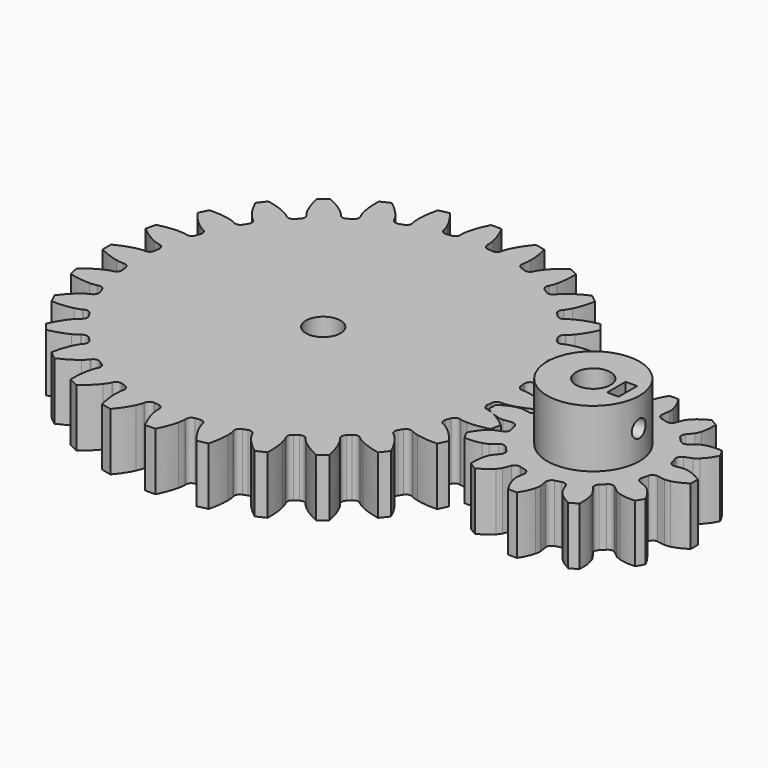
from build123d import *

# Parameters (mm, degrees)
CYLINDER001_R     = 8
CYLINDER001_DEPTH = 10
CYLINDER003_R     = 3
CYLINDER003_DEPTH = 10
EXTRUDE_DEPTH     = 10
CYLINDER004_R     = 1.5
CYLINDER004_DEPTH = 10
BOX_W             = 2
BOX_H             = 4
BOX_DEPTH         = 4
CYLINDER002_R     = 3
CYLINDER002_DEPTH = 20
CYLINDER_R        = 8
CYLINDER_DEPTH    = 20
EXTRUDE001_DEPTH  = 10


with BuildPart() as cilindro001:
    # Cylinder001 → Cylinder001 (new body)
    with BuildSketch(Plane(origin=(50, -4, 0), x_dir=(1, 0, 0), z_dir=(0, 0, 1))):
        Circle(CYLINDER001_R)
    extrude(amount=CYLINDER001_DEPTH)


with BuildPart() as cilindro003:
    # Cylinder003 → Cylinder003 (new body)
    with BuildSketch(Plane.XY):
        Circle(CYLINDER003_R)
    extrude(amount=CYLINDER003_DEPTH)


with BuildPart() as cut002:
    # InvoluteGear → Extrude (new body)
    with BuildSketch(Plane.XY):
        with BuildLine():
            Line((32.716459, -2.32692), (32.856946, -2.335013))
            add(Edge.make_bspline(
                [(32.856946, -2.335013), (32.990949, -2.337125), (33.394798, -2.328721), (34.06713, -2.188651)],
                knots=[0, 0, 0, 0, 1, 1, 1, 1], degree=3))
            add(Edge.make_bspline(
                [(34.06713, -2.188651), (34.873016, -2.018801), (36.038338, -1.661329), (37.491435, -0.912795)],
                knots=[0, 0, 0, 0, 1, 1, 1, 1], degree=3))
            ThreePointArc((37.491435, -0.912795), (37.502546, 0), (37.491435, 0.912795))
            add(Edge.make_bspline(
                [(37.491435, 0.912795), (36.038338, 1.661329), (34.873016, 2.018801), (34.06713, 2.188651)],
                knots=[0, 0, 0, 0, 1, 1, 1, 1], degree=3))
            add(Edge.make_bspline(
                [(34.06713, 2.188651), (33.394798, 2.328721), (32.990949, 2.337125), (32.856946, 2.335013)],
                knots=[0, 0, 0, 0, 1, 1, 1, 1], degree=3))
            Line((32.856946, 2.335013), (32.716459, 2.32692))
            ThreePointArc((32.716459, 2.32692), (32.04606, 2.544962), (31.71713, 3.168486))
            ThreePointArc((31.71713, 3.168486), (31.674577, 3.568868), (31.62697, 3.96868))
            ThreePointArc((31.62697, 3.96868), (31.808906, 4.649765), (32.413977, 5.011518))
            Line((32.413977, 5.011518), (32.552743, 5.034889))
            add(Edge.make_bspline(
                [(32.552743, 5.034889), (32.683857, 5.062649), (33.07571, 5.160707), (33.700017, 5.446872)],
                knots=[0, 0, 0, 0, 1, 1, 1, 1], degree=3))
            add(Edge.make_bspline(
                [(33.700017, 5.446872), (34.447903, 5.791791), (35.504462, 6.399608), (36.754562, 7.45272)],
                knots=[0, 0, 0, 0, 1, 1, 1, 1], degree=3))
            ThreePointArc((36.754562, 7.45272), (36.562279, 8.345102), (36.348331, 9.232538))
            add(Edge.make_bspline(
                [(36.348331, 9.232538), (34.765101, 9.638961), (33.549452, 9.728162), (32.725976, 9.714427)],
                knots=[0, 0, 0, 0, 1, 1, 1, 1], degree=3))
            add(Edge.make_bspline(
                [(32.725976, 9.714427), (32.039332, 9.701377), (31.643738, 9.619705), (31.513565, 9.587827)],
                knots=[0, 0, 0, 0, 1, 1, 1, 1], degree=3))
            Line((31.513565, 9.587827), (31.378401, 9.548676))
            ThreePointArc((31.378401, 9.548676), (30.676291, 9.612074), (30.216861, 10.146771))
            ThreePointArc((30.216861, 10.146771), (30.086281, 10.527645), (29.950901, 10.90684))
            ThreePointArc((29.950901, 10.90684), (29.97672, 11.611333), (30.486124, 12.098658))
            Line((30.486124, 12.098658), (30.61621, 12.152321))
            add(Edge.make_bspline(
                [(30.61621, 12.152321), (30.737859, 12.20856), (31.098067, 12.391355), (31.643044, 12.809267)],
                knots=[0, 0, 0, 0, 1, 1, 1, 1], degree=3))
            add(Edge.make_bspline(
                [(31.643044, 12.809267), (32.295427, 13.311958), (33.190244, 14.139643), (34.174663, 15.444524)],
                knots=[0, 0, 0, 0, 1, 1, 1, 1], degree=3))
            ThreePointArc((34.174663, 15.444524), (33.788626, 16.271745), (33.382569, 17.089324))
            add(Edge.make_bspline(
                [(33.382569, 17.089324), (31.748597, 17.133255), (30.543577, 16.949712), (29.743804, 16.753081)],
                knots=[0, 0, 0, 0, 1, 1, 1, 1], degree=3))
            add(Edge.make_bspline(
                [(29.743804, 16.753081), (29.077279, 16.587565), (28.709778, 16.419913), (28.589961, 16.359868)],
                knots=[0, 0, 0, 0, 1, 1, 1, 1], degree=3))
            Line((28.589961, 16.359868), (28.466899, 16.291622))
            ThreePointArc((28.466899, 16.291622), (27.768285, 16.197196), (27.201392, 16.616254))
            ThreePointArc((27.201392, 16.616254), (26.989334, 16.958522), (26.772969, 17.298085))
            ThreePointArc((26.772969, 17.298085), (26.641377, 17.99066), (27.029568, 18.57912))
            Line((27.029568, 18.57912), (27.144452, 18.660384))
            add(Edge.make_bspline(
                [(27.144452, 18.660384), (27.250536, 18.742283), (27.561038, 19.000649), (27.999357, 19.529352)],
                knots=[0, 0, 0, 0, 1, 1, 1, 1], degree=3))
            add(Edge.make_bspline(
                [(27.999357, 19.529352), (28.523524, 20.164608), (29.211729, 21.170657), (29.881102, 22.661876)],
                knots=[0, 0, 0, 0, 1, 1, 1, 1], degree=3))
            ThreePointArc((29.881102, 22.661876), (29.320671, 23.382455), (28.742866, 24.089179))
            add(Edge.make_bspline(
                [(28.742866, 24.089179), (27.140085, 23.768415), (26.00612, 23.321332), (25.270153, 22.951665)],
                knots=[0, 0, 0, 0, 1, 1, 1, 1], degree=3))
            add(Edge.make_bspline(
                [(25.270153, 22.951665), (24.657171, 22.641983), (24.336189, 22.396758), (24.232738, 22.311557)],
                knots=[0, 0, 0, 0, 1, 1, 1, 1], degree=3))
            Line((24.232738, 22.311557), (24.127947, 22.217638))
            ThreePointArc((24.127947, 22.217638), (23.467861, 21.970123), (22.821932, 22.252529))
            ThreePointArc((22.821932, 22.252529), (22.539029, 22.539029), (22.252529, 22.821932))
            ThreePointArc((22.252529, 22.821932), (21.970123, 23.467861), (22.217638, 24.127947))
            Line((22.217638, 24.127947), (22.311557, 24.232738))
            add(Edge.make_bspline(
                [(22.311557, 24.232738), (22.396758, 24.336189), (22.641983, 24.657171), (22.951665, 25.270153)],
                knots=[0, 0, 0, 0, 1, 1, 1, 1], degree=3))
            add(Edge.make_bspline(
                [(22.951665, 25.270153), (23.321332, 26.00612), (23.768415, 27.140085), (24.089179, 28.742866)],
                knots=[0, 0, 0, 0, 1, 1, 1, 1], degree=3))
            ThreePointArc((24.089179, 28.742866), (23.382455, 29.320671), (22.661876, 29.881102))
            add(Edge.make_bspline(
                [(22.661876, 29.881102), (21.170657, 29.211729), (20.164608, 28.523524), (19.529352, 27.999357)],
                knots=[0, 0, 0, 0, 1, 1, 1, 1], degree=3))
            add(Edge.make_bspline(
                [(19.529352, 27.999357), (19.000649, 27.561038), (18.742283, 27.250536), (18.660384, 27.144452)],
                knots=[0, 0, 0, 0, 1, 1, 1, 1], degree=3))
            Line((18.660384, 27.144452), (18.57912, 27.029568))
            ThreePointArc((18.57912, 27.029568), (17.99066, 26.641377), (17.298085, 26.772969))
            ThreePointArc((17.298085, 26.772969), (16.958522, 26.989334), (16.616254, 27.201392))
            ThreePointArc((16.616254, 27.201392), (16.197196, 27.768285), (16.291622, 28.466899))
            Line((16.291622, 28.466899), (16.359868, 28.589961))
            add(Edge.make_bspline(
                [(16.359868, 28.589961), (16.419913, 28.709778), (16.587565, 29.077279), (16.753081, 29.743804)],
                knots=[0, 0, 0, 0, 1, 1, 1, 1], degree=3))
            add(Edge.make_bspline(
                [(16.753081, 29.743804), (16.949712, 30.543577), (17.133255, 31.748597), (17.089324, 33.382569)],
                knots=[0, 0, 0, 0, 1, 1, 1, 1], degree=3))
            ThreePointArc((17.089324, 33.382569), (16.271745, 33.788626), (15.444524, 34.174663))
            add(Edge.make_bspline(
                [(15.444524, 34.174663), (14.139643, 33.190244), (13.311958, 32.295427), (12.809267, 31.643044)],
                knots=[0, 0, 0, 0, 1, 1, 1, 1], degree=3))
            add(Edge.make_bspline(
                [(12.809267, 31.643044), (12.391355, 31.098067), (12.20856, 30.737859), (12.152321, 30.61621)],
                knots=[0, 0, 0, 0, 1, 1, 1, 1], degree=3))
            Line((12.152321, 30.61621), (12.098658, 30.486124))
            ThreePointArc((12.098658, 30.486124), (11.611333, 29.97672), (10.90684, 29.950901))
            ThreePointArc((10.90684, 29.950901), (10.527645, 30.086281), (10.146771, 30.216861))
            ThreePointArc((10.146771, 30.216861), (9.612074, 30.676291), (9.548676, 31.378401))
            Line((9.548676, 31.378401), (9.587827, 31.513565))
            add(Edge.make_bspline(
                [(9.587827, 31.513565), (9.619705, 31.643738), (9.701377, 32.039332), (9.714427, 32.725976)],
                knots=[0, 0, 0, 0, 1, 1, 1, 1], degree=3))
            add(Edge.make_bspline(
                [(9.714427, 32.725976), (9.728162, 33.549452), (9.638961, 34.765101), (9.232538, 36.348331)],
                knots=[0, 0, 0, 0, 1, 1, 1, 1], degree=3))
            ThreePointArc((9.232538, 36.348331), (8.345102, 36.562279), (7.45272, 36.754562))
            add(Edge.make_bspline(
                [(7.45272, 36.754562), (6.399608, 35.504462), (5.791791, 34.447903), (5.446872, 33.700017)],
                knots=[0, 0, 0, 0, 1, 1, 1, 1], degree=3))
            add(Edge.make_bspline(
                [(5.446872, 33.700017), (5.160707, 33.07571), (5.062649, 32.683857), (5.034889, 32.552743)],
                knots=[0, 0, 0, 0, 1, 1, 1, 1], degree=3))
            Line((5.034889, 32.552743), (5.011518, 32.413977))
            ThreePointArc((5.011518, 32.413977), (4.649765, 31.808906), (3.96868, 31.62697))
            ThreePointArc((3.96868, 31.62697), (3.568868, 31.674577), (3.168486, 31.71713))
            ThreePointArc((3.168486, 31.71713), (2.544962, 32.04606), (2.32692, 32.716459))
            Line((2.32692, 32.716459), (2.335013, 32.856946))
            add(Edge.make_bspline(
                [(2.335013, 32.856946), (2.337125, 32.990949), (2.328721, 33.394798), (2.188651, 34.06713)],
                knots=[0, 0, 0, 0, 1, 1, 1, 1], degree=3))
            add(Edge.make_bspline(
                [(2.188651, 34.06713), (2.018801, 34.873016), (1.661329, 36.038338), (0.912795, 37.491435)],
                knots=[0, 0, 0, 0, 1, 1, 1, 1], degree=3))
            ThreePointArc((0.912795, 37.491435), (0, 37.502546), (-0.912795, 37.491435))
            add(Edge.make_bspline(
                [(-0.912795, 37.491435), (-1.661329, 36.038338), (-2.018801, 34.873016), (-2.188651, 34.06713)],
                knots=[0, 0, 0, 0, 1, 1, 1, 1], degree=3))
            add(Edge.make_bspline(
                [(-2.188651, 34.06713), (-2.328721, 33.394798), (-2.337125, 32.990949), (-2.335013, 32.856946)],
                knots=[0, 0, 0, 0, 1, 1, 1, 1], degree=3))
            Line((-2.335013, 32.856946), (-2.32692, 32.716459))
            ThreePointArc((-2.32692, 32.716459), (-2.544962, 32.04606), (-3.168486, 31.71713))
            ThreePointArc((-3.168486, 31.71713), (-3.568868, 31.674577), (-3.96868, 31.62697))
            ThreePointArc((-3.96868, 31.62697), (-4.649765, 31.808906), (-5.011518, 32.413977))
            Line((-5.011518, 32.413977), (-5.034889, 32.552743))
            add(Edge.make_bspline(
                [(-5.034889, 32.552743), (-5.062649, 32.683857), (-5.160707, 33.07571), (-5.446872, 33.700017)],
                knots=[0, 0, 0, 0, 1, 1, 1, 1], degree=3))
            add(Edge.make_bspline(
                [(-5.446872, 33.700017), (-5.791791, 34.447903), (-6.399608, 35.504462), (-7.45272, 36.754562)],
                knots=[0, 0, 0, 0, 1, 1, 1, 1], degree=3))
            ThreePointArc((-7.45272, 36.754562), (-8.345102, 36.562279), (-9.232538, 36.348331))
            add(Edge.make_bspline(
                [(-9.232538, 36.348331), (-9.638961, 34.765101), (-9.728162, 33.549452), (-9.714427, 32.725976)],
                knots=[0, 0, 0, 0, 1, 1, 1, 1], degree=3))
            add(Edge.make_bspline(
                [(-9.714427, 32.725976), (-9.701377, 32.039332), (-9.619705, 31.643738), (-9.587827, 31.513565)],
                knots=[0, 0, 0, 0, 1, 1, 1, 1], degree=3))
            Line((-9.587827, 31.513565), (-9.548676, 31.378401))
            ThreePointArc((-9.548676, 31.378401), (-9.612074, 30.676291), (-10.146771, 30.216861))
            ThreePointArc((-10.146771, 30.216861), (-10.527645, 30.086281), (-10.90684, 29.950901))
            ThreePointArc((-10.90684, 29.950901), (-11.611333, 29.97672), (-12.098658, 30.486124))
            Line((-12.098658, 30.486124), (-12.152321, 30.61621))
            add(Edge.make_bspline(
                [(-12.152321, 30.61621), (-12.20856, 30.737859), (-12.391355, 31.098067), (-12.809267, 31.643044)],
                knots=[0, 0, 0, 0, 1, 1, 1, 1], degree=3))
            add(Edge.make_bspline(
                [(-12.809267, 31.643044), (-13.311958, 32.295427), (-14.139643, 33.190244), (-15.444524, 34.174663)],
                knots=[0, 0, 0, 0, 1, 1, 1, 1], degree=3))
            ThreePointArc((-15.444524, 34.174663), (-16.271745, 33.788626), (-17.089324, 33.382569))
            add(Edge.make_bspline(
                [(-17.089324, 33.382569), (-17.133255, 31.748597), (-16.949712, 30.543577), (-16.753081, 29.743804)],
                knots=[0, 0, 0, 0, 1, 1, 1, 1], degree=3))
            add(Edge.make_bspline(
                [(-16.753081, 29.743804), (-16.587565, 29.077279), (-16.419913, 28.709778), (-16.359868, 28.589961)],
                knots=[0, 0, 0, 0, 1, 1, 1, 1], degree=3))
            Line((-16.359868, 28.589961), (-16.291622, 28.466899))
            ThreePointArc((-16.291622, 28.466899), (-16.197196, 27.768285), (-16.616254, 27.201392))
            ThreePointArc((-16.616254, 27.201392), (-16.958522, 26.989334), (-17.298085, 26.772969))
            ThreePointArc((-17.298085, 26.772969), (-17.99066, 26.641377), (-18.57912, 27.029568))
            Line((-18.57912, 27.029568), (-18.660384, 27.144452))
            add(Edge.make_bspline(
                [(-18.660384, 27.144452), (-18.742283, 27.250536), (-19.000649, 27.561038), (-19.529352, 27.999357)],
                knots=[0, 0, 0, 0, 1, 1, 1, 1], degree=3))
            add(Edge.make_bspline(
                [(-19.529352, 27.999357), (-20.164608, 28.523524), (-21.170657, 29.211729), (-22.661876, 29.881102)],
                knots=[0, 0, 0, 0, 1, 1, 1, 1], degree=3))
            ThreePointArc((-22.661876, 29.881102), (-23.382455, 29.320671), (-24.089179, 28.742866))
            add(Edge.make_bspline(
                [(-24.089179, 28.742866), (-23.768415, 27.140085), (-23.321332, 26.00612), (-22.951665, 25.270153)],
                knots=[0, 0, 0, 0, 1, 1, 1, 1], degree=3))
            add(Edge.make_bspline(
                [(-22.951665, 25.270153), (-22.641983, 24.657171), (-22.396758, 24.336189), (-22.311557, 24.232738)],
                knots=[0, 0, 0, 0, 1, 1, 1, 1], degree=3))
            Line((-22.311557, 24.232738), (-22.217638, 24.127947))
            ThreePointArc((-22.217638, 24.127947), (-21.970123, 23.467861), (-22.252529, 22.821932))
            ThreePointArc((-22.252529, 22.821932), (-22.539029, 22.539029), (-22.821932, 22.252529))
            ThreePointArc((-22.821932, 22.252529), (-23.467861, 21.970123), (-24.127947, 22.217638))
            Line((-24.127947, 22.217638), (-24.232738, 22.311557))
            add(Edge.make_bspline(
                [(-24.232738, 22.311557), (-24.336189, 22.396758), (-24.657171, 22.641983), (-25.270153, 22.951665)],
                knots=[0, 0, 0, 0, 1, 1, 1, 1], degree=3))
            add(Edge.make_bspline(
                [(-25.270153, 22.951665), (-26.00612, 23.321332), (-27.140085, 23.768415), (-28.742866, 24.089179)],
                knots=[0, 0, 0, 0, 1, 1, 1, 1], degree=3))
            ThreePointArc((-28.742866, 24.089179), (-29.320671, 23.382455), (-29.881102, 22.661876))
            add(Edge.make_bspline(
                [(-29.881102, 22.661876), (-29.211729, 21.170657), (-28.523524, 20.164608), (-27.999357, 19.529352)],
                knots=[0, 0, 0, 0, 1, 1, 1, 1], degree=3))
            add(Edge.make_bspline(
                [(-27.999357, 19.529352), (-27.561038, 19.000649), (-27.250536, 18.742283), (-27.144452, 18.660384)],
                knots=[0, 0, 0, 0, 1, 1, 1, 1], degree=3))
            Line((-27.144452, 18.660384), (-27.029568, 18.57912))
            ThreePointArc((-27.029568, 18.57912), (-26.641377, 17.99066), (-26.772969, 17.298085))
            ThreePointArc((-26.772969, 17.298085), (-26.989334, 16.958522), (-27.201392, 16.616254))
            ThreePointArc((-27.201392, 16.616254), (-27.768285, 16.197196), (-28.466899, 16.291622))
            Line((-28.466899, 16.291622), (-28.589961, 16.359868))
            add(Edge.make_bspline(
                [(-28.589961, 16.359868), (-28.709778, 16.419913), (-29.077279, 16.587565), (-29.743804, 16.753081)],
                knots=[0, 0, 0, 0, 1, 1, 1, 1], degree=3))
            add(Edge.make_bspline(
                [(-29.743804, 16.753081), (-30.543577, 16.949712), (-31.748597, 17.133255), (-33.382569, 17.089324)],
                knots=[0, 0, 0, 0, 1, 1, 1, 1], degree=3))
            ThreePointArc((-33.382569, 17.089324), (-33.788626, 16.271745), (-34.174663, 15.444524))
            add(Edge.make_bspline(
                [(-34.174663, 15.444524), (-33.190244, 14.139643), (-32.295427, 13.311958), (-31.643044, 12.809267)],
                knots=[0, 0, 0, 0, 1, 1, 1, 1], degree=3))
            add(Edge.make_bspline(
                [(-31.643044, 12.809267), (-31.098067, 12.391355), (-30.737859, 12.20856), (-30.61621, 12.152321)],
                knots=[0, 0, 0, 0, 1, 1, 1, 1], degree=3))
            Line((-30.61621, 12.152321), (-30.486124, 12.098658))
            ThreePointArc((-30.486124, 12.098658), (-29.97672, 11.611333), (-29.950901, 10.90684))
            ThreePointArc((-29.950901, 10.90684), (-30.086281, 10.527645), (-30.216861, 10.146771))
            ThreePointArc((-30.216861, 10.146771), (-30.676291, 9.612074), (-31.378401, 9.548676))
            Line((-31.378401, 9.548676), (-31.513565, 9.587827))
            add(Edge.make_bspline(
                [(-31.513565, 9.587827), (-31.643738, 9.619705), (-32.039332, 9.701377), (-32.725976, 9.714427)],
                knots=[0, 0, 0, 0, 1, 1, 1, 1], degree=3))
            add(Edge.make_bspline(
                [(-32.725976, 9.714427), (-33.549452, 9.728162), (-34.765101, 9.638961), (-36.348331, 9.232538)],
                knots=[0, 0, 0, 0, 1, 1, 1, 1], degree=3))
            ThreePointArc((-36.348331, 9.232538), (-36.562279, 8.345102), (-36.754562, 7.45272))
            add(Edge.make_bspline(
                [(-36.754562, 7.45272), (-35.504462, 6.399608), (-34.447903, 5.791791), (-33.700017, 5.446872)],
                knots=[0, 0, 0, 0, 1, 1, 1, 1], degree=3))
            add(Edge.make_bspline(
                [(-33.700017, 5.446872), (-33.07571, 5.160707), (-32.683857, 5.062649), (-32.552743, 5.034889)],
                knots=[0, 0, 0, 0, 1, 1, 1, 1], degree=3))
            Line((-32.552743, 5.034889), (-32.413977, 5.011518))
            ThreePointArc((-32.413977, 5.011518), (-31.808906, 4.649765), (-31.62697, 3.96868))
            ThreePointArc((-31.62697, 3.96868), (-31.674577, 3.568868), (-31.71713, 3.168486))
            ThreePointArc((-31.71713, 3.168486), (-32.04606, 2.544962), (-32.716459, 2.32692))
            Line((-32.716459, 2.32692), (-32.856946, 2.335013))
            add(Edge.make_bspline(
                [(-32.856946, 2.335013), (-32.990949, 2.337125), (-33.394798, 2.328721), (-34.06713, 2.188651)],
                knots=[0, 0, 0, 0, 1, 1, 1, 1], degree=3))
            add(Edge.make_bspline(
                [(-34.06713, 2.188651), (-34.873016, 2.018801), (-36.038338, 1.661329), (-37.491435, 0.912795)],
                knots=[0, 0, 0, 0, 1, 1, 1, 1], degree=3))
            ThreePointArc((-37.491435, 0.912795), (-37.502546, 0), (-37.491435, -0.912795))
            add(Edge.make_bspline(
                [(-37.491435, -0.912795), (-36.038338, -1.661329), (-34.873016, -2.018801), (-34.06713, -2.188651)],
                knots=[0, 0, 0, 0, 1, 1, 1, 1], degree=3))
            add(Edge.make_bspline(
                [(-34.06713, -2.188651), (-33.394798, -2.328721), (-32.990949, -2.337125), (-32.856946, -2.335013)],
                knots=[0, 0, 0, 0, 1, 1, 1, 1], degree=3))
            Line((-32.856946, -2.335013), (-32.716459, -2.32692))
            ThreePointArc((-32.716459, -2.32692), (-32.04606, -2.544962), (-31.71713, -3.168486))
            ThreePointArc((-31.71713, -3.168486), (-31.674577, -3.568868), (-31.62697, -3.96868))
            ThreePointArc((-31.62697, -3.96868), (-31.808906, -4.649765), (-32.413977, -5.011518))
            Line((-32.413977, -5.011518), (-32.552743, -5.034889))
            add(Edge.make_bspline(
                [(-32.552743, -5.034889), (-32.683857, -5.062649), (-33.07571, -5.160707), (-33.700017, -5.446872)],
                knots=[0, 0, 0, 0, 1, 1, 1, 1], degree=3))
            add(Edge.make_bspline(
                [(-33.700017, -5.446872), (-34.447903, -5.791791), (-35.504462, -6.399608), (-36.754562, -7.45272)],
                knots=[0, 0, 0, 0, 1, 1, 1, 1], degree=3))
            ThreePointArc((-36.754562, -7.45272), (-36.562279, -8.345102), (-36.348331, -9.232538))
            add(Edge.make_bspline(
                [(-36.348331, -9.232538), (-34.765101, -9.638961), (-33.549452, -9.728162), (-32.725976, -9.714427)],
                knots=[0, 0, 0, 0, 1, 1, 1, 1], degree=3))
            add(Edge.make_bspline(
                [(-32.725976, -9.714427), (-32.039332, -9.701377), (-31.643738, -9.619705), (-31.513565, -9.587827)],
                knots=[0, 0, 0, 0, 1, 1, 1, 1], degree=3))
            Line((-31.513565, -9.587827), (-31.378401, -9.548676))
            ThreePointArc((-31.378401, -9.548676), (-30.676291, -9.612074), (-30.216861, -10.146771))
            ThreePointArc((-30.216861, -10.146771), (-30.086281, -10.527645), (-29.950901, -10.90684))
            ThreePointArc((-29.950901, -10.90684), (-29.97672, -11.611333), (-30.486124, -12.098658))
            Line((-30.486124, -12.098658), (-30.61621, -12.152321))
            add(Edge.make_bspline(
                [(-30.61621, -12.152321), (-30.737859, -12.20856), (-31.098067, -12.391355), (-31.643044, -12.809267)],
                knots=[0, 0, 0, 0, 1, 1, 1, 1], degree=3))
            add(Edge.make_bspline(
                [(-31.643044, -12.809267), (-32.295427, -13.311958), (-33.190244, -14.139643), (-34.174663, -15.444524)],
                knots=[0, 0, 0, 0, 1, 1, 1, 1], degree=3))
            ThreePointArc((-34.174663, -15.444524), (-33.788626, -16.271745), (-33.382569, -17.089324))
            add(Edge.make_bspline(
                [(-33.382569, -17.089324), (-31.748597, -17.133255), (-30.543577, -16.949712), (-29.743804, -16.753081)],
                knots=[0, 0, 0, 0, 1, 1, 1, 1], degree=3))
            add(Edge.make_bspline(
                [(-29.743804, -16.753081), (-29.077279, -16.587565), (-28.709778, -16.419913), (-28.589961, -16.359868)],
                knots=[0, 0, 0, 0, 1, 1, 1, 1], degree=3))
            Line((-28.589961, -16.359868), (-28.466899, -16.291622))
            ThreePointArc((-28.466899, -16.291622), (-27.768285, -16.197196), (-27.201392, -16.616254))
            ThreePointArc((-27.201392, -16.616254), (-26.989334, -16.958522), (-26.772969, -17.298085))
            ThreePointArc((-26.772969, -17.298085), (-26.641377, -17.99066), (-27.029568, -18.57912))
            Line((-27.029568, -18.57912), (-27.144452, -18.660384))
            add(Edge.make_bspline(
                [(-27.144452, -18.660384), (-27.250536, -18.742283), (-27.561038, -19.000649), (-27.999357, -19.529352)],
                knots=[0, 0, 0, 0, 1, 1, 1, 1], degree=3))
            add(Edge.make_bspline(
                [(-27.999357, -19.529352), (-28.523524, -20.164608), (-29.211729, -21.170657), (-29.881102, -22.661876)],
                knots=[0, 0, 0, 0, 1, 1, 1, 1], degree=3))
            ThreePointArc((-29.881102, -22.661876), (-29.320671, -23.382455), (-28.742866, -24.089179))
            add(Edge.make_bspline(
                [(-28.742866, -24.089179), (-27.140085, -23.768415), (-26.00612, -23.321332), (-25.270153, -22.951665)],
                knots=[0, 0, 0, 0, 1, 1, 1, 1], degree=3))
            add(Edge.make_bspline(
                [(-25.270153, -22.951665), (-24.657171, -22.641983), (-24.336189, -22.396758), (-24.232738, -22.311557)],
                knots=[0, 0, 0, 0, 1, 1, 1, 1], degree=3))
            Line((-24.232738, -22.311557), (-24.127947, -22.217638))
            ThreePointArc((-24.127947, -22.217638), (-23.467861, -21.970123), (-22.821932, -22.252529))
            ThreePointArc((-22.821932, -22.252529), (-22.539029, -22.539029), (-22.252529, -22.821932))
            ThreePointArc((-22.252529, -22.821932), (-21.970123, -23.467861), (-22.217638, -24.127947))
            Line((-22.217638, -24.127947), (-22.311557, -24.232738))
            add(Edge.make_bspline(
                [(-22.311557, -24.232738), (-22.396758, -24.336189), (-22.641983, -24.657171), (-22.951665, -25.270153)],
                knots=[0, 0, 0, 0, 1, 1, 1, 1], degree=3))
            add(Edge.make_bspline(
                [(-22.951665, -25.270153), (-23.321332, -26.00612), (-23.768415, -27.140085), (-24.089179, -28.742866)],
                knots=[0, 0, 0, 0, 1, 1, 1, 1], degree=3))
            ThreePointArc((-24.089179, -28.742866), (-23.382455, -29.320671), (-22.661876, -29.881102))
            add(Edge.make_bspline(
                [(-22.661876, -29.881102), (-21.170657, -29.211729), (-20.164608, -28.523524), (-19.529352, -27.999357)],
                knots=[0, 0, 0, 0, 1, 1, 1, 1], degree=3))
            add(Edge.make_bspline(
                [(-19.529352, -27.999357), (-19.000649, -27.561038), (-18.742283, -27.250536), (-18.660384, -27.144452)],
                knots=[0, 0, 0, 0, 1, 1, 1, 1], degree=3))
            Line((-18.660384, -27.144452), (-18.57912, -27.029568))
            ThreePointArc((-18.57912, -27.029568), (-17.99066, -26.641377), (-17.298085, -26.772969))
            ThreePointArc((-17.298085, -26.772969), (-16.958522, -26.989334), (-16.616254, -27.201392))
            ThreePointArc((-16.616254, -27.201392), (-16.197196, -27.768285), (-16.291622, -28.466899))
            Line((-16.291622, -28.466899), (-16.359868, -28.589961))
            add(Edge.make_bspline(
                [(-16.359868, -28.589961), (-16.419913, -28.709778), (-16.587565, -29.077279), (-16.753081, -29.743804)],
                knots=[0, 0, 0, 0, 1, 1, 1, 1], degree=3))
            add(Edge.make_bspline(
                [(-16.753081, -29.743804), (-16.949712, -30.543577), (-17.133255, -31.748597), (-17.089324, -33.382569)],
                knots=[0, 0, 0, 0, 1, 1, 1, 1], degree=3))
            ThreePointArc((-17.089324, -33.382569), (-16.271745, -33.788626), (-15.444524, -34.174663))
            add(Edge.make_bspline(
                [(-15.444524, -34.174663), (-14.139643, -33.190244), (-13.311958, -32.295427), (-12.809267, -31.643044)],
                knots=[0, 0, 0, 0, 1, 1, 1, 1], degree=3))
            add(Edge.make_bspline(
                [(-12.809267, -31.643044), (-12.391355, -31.098067), (-12.20856, -30.737859), (-12.152321, -30.61621)],
                knots=[0, 0, 0, 0, 1, 1, 1, 1], degree=3))
            Line((-12.152321, -30.61621), (-12.098658, -30.486124))
            ThreePointArc((-12.098658, -30.486124), (-11.611333, -29.97672), (-10.90684, -29.950901))
            ThreePointArc((-10.90684, -29.950901), (-10.527645, -30.086281), (-10.146771, -30.216861))
            ThreePointArc((-10.146771, -30.216861), (-9.612074, -30.676291), (-9.548676, -31.378401))
            Line((-9.548676, -31.378401), (-9.587827, -31.513565))
            add(Edge.make_bspline(
                [(-9.587827, -31.513565), (-9.619705, -31.643738), (-9.701377, -32.039332), (-9.714427, -32.725976)],
                knots=[0, 0, 0, 0, 1, 1, 1, 1], degree=3))
            add(Edge.make_bspline(
                [(-9.714427, -32.725976), (-9.728162, -33.549452), (-9.638961, -34.765101), (-9.232538, -36.348331)],
                knots=[0, 0, 0, 0, 1, 1, 1, 1], degree=3))
            ThreePointArc((-9.232538, -36.348331), (-8.345102, -36.562279), (-7.45272, -36.754562))
            add(Edge.make_bspline(
                [(-7.45272, -36.754562), (-6.399608, -35.504462), (-5.791791, -34.447903), (-5.446872, -33.700017)],
                knots=[0, 0, 0, 0, 1, 1, 1, 1], degree=3))
            add(Edge.make_bspline(
                [(-5.446872, -33.700017), (-5.160707, -33.07571), (-5.062649, -32.683857), (-5.034889, -32.552743)],
                knots=[0, 0, 0, 0, 1, 1, 1, 1], degree=3))
            Line((-5.034889, -32.552743), (-5.011518, -32.413977))
            ThreePointArc((-5.011518, -32.413977), (-4.649765, -31.808906), (-3.96868, -31.62697))
            ThreePointArc((-3.96868, -31.62697), (-3.568868, -31.674577), (-3.168486, -31.71713))
            ThreePointArc((-3.168486, -31.71713), (-2.544962, -32.04606), (-2.32692, -32.716459))
            Line((-2.32692, -32.716459), (-2.335013, -32.856946))
            add(Edge.make_bspline(
                [(-2.335013, -32.856946), (-2.337125, -32.990949), (-2.328721, -33.394798), (-2.188651, -34.06713)],
                knots=[0, 0, 0, 0, 1, 1, 1, 1], degree=3))
            add(Edge.make_bspline(
                [(-2.188651, -34.06713), (-2.018801, -34.873016), (-1.661329, -36.038338), (-0.912795, -37.491435)],
                knots=[0, 0, 0, 0, 1, 1, 1, 1], degree=3))
            ThreePointArc((-0.912795, -37.491435), (0, -37.502546), (0.912795, -37.491435))
            add(Edge.make_bspline(
                [(0.912795, -37.491435), (1.661329, -36.038338), (2.018801, -34.873016), (2.188651, -34.06713)],
                knots=[0, 0, 0, 0, 1, 1, 1, 1], degree=3))
            add(Edge.make_bspline(
                [(2.188651, -34.06713), (2.328721, -33.394798), (2.337125, -32.990949), (2.335013, -32.856946)],
                knots=[0, 0, 0, 0, 1, 1, 1, 1], degree=3))
            Line((2.335013, -32.856946), (2.32692, -32.716459))
            ThreePointArc((2.32692, -32.716459), (2.544962, -32.04606), (3.168486, -31.71713))
            ThreePointArc((3.168486, -31.71713), (3.568868, -31.674577), (3.96868, -31.62697))
            ThreePointArc((3.96868, -31.62697), (4.649765, -31.808906), (5.011518, -32.413977))
            Line((5.011518, -32.413977), (5.034889, -32.552743))
            add(Edge.make_bspline(
                [(5.034889, -32.552743), (5.062649, -32.683857), (5.160707, -33.07571), (5.446872, -33.700017)],
                knots=[0, 0, 0, 0, 1, 1, 1, 1], degree=3))
            add(Edge.make_bspline(
                [(5.446872, -33.700017), (5.791791, -34.447903), (6.399608, -35.504462), (7.45272, -36.754562)],
                knots=[0, 0, 0, 0, 1, 1, 1, 1], degree=3))
            ThreePointArc((7.45272, -36.754562), (8.345102, -36.562279), (9.232538, -36.348331))
            add(Edge.make_bspline(
                [(9.232538, -36.348331), (9.638961, -34.765101), (9.728162, -33.549452), (9.714427, -32.725976)],
                knots=[0, 0, 0, 0, 1, 1, 1, 1], degree=3))
            add(Edge.make_bspline(
                [(9.714427, -32.725976), (9.701377, -32.039332), (9.619705, -31.643738), (9.587827, -31.513565)],
                knots=[0, 0, 0, 0, 1, 1, 1, 1], degree=3))
            Line((9.587827, -31.513565), (9.548676, -31.378401))
            ThreePointArc((9.548676, -31.378401), (9.612074, -30.676291), (10.146771, -30.216861))
            ThreePointArc((10.146771, -30.216861), (10.527645, -30.086281), (10.90684, -29.950901))
            ThreePointArc((10.90684, -29.950901), (11.611333, -29.97672), (12.098658, -30.486124))
            Line((12.098658, -30.486124), (12.152321, -30.61621))
            add(Edge.make_bspline(
                [(12.152321, -30.61621), (12.20856, -30.737859), (12.391355, -31.098067), (12.809267, -31.643044)],
                knots=[0, 0, 0, 0, 1, 1, 1, 1], degree=3))
            add(Edge.make_bspline(
                [(12.809267, -31.643044), (13.311958, -32.295427), (14.139643, -33.190244), (15.444524, -34.174663)],
                knots=[0, 0, 0, 0, 1, 1, 1, 1], degree=3))
            ThreePointArc((15.444524, -34.174663), (16.271745, -33.788626), (17.089324, -33.382569))
            add(Edge.make_bspline(
                [(17.089324, -33.382569), (17.133255, -31.748597), (16.949712, -30.543577), (16.753081, -29.743804)],
                knots=[0, 0, 0, 0, 1, 1, 1, 1], degree=3))
            add(Edge.make_bspline(
                [(16.753081, -29.743804), (16.587565, -29.077279), (16.419913, -28.709778), (16.359868, -28.589961)],
                knots=[0, 0, 0, 0, 1, 1, 1, 1], degree=3))
            Line((16.359868, -28.589961), (16.291622, -28.466899))
            ThreePointArc((16.291622, -28.466899), (16.197196, -27.768285), (16.616254, -27.201392))
            ThreePointArc((16.616254, -27.201392), (16.958522, -26.989334), (17.298085, -26.772969))
            ThreePointArc((17.298085, -26.772969), (17.99066, -26.641377), (18.57912, -27.029568))
            Line((18.57912, -27.029568), (18.660384, -27.144452))
            add(Edge.make_bspline(
                [(18.660384, -27.144452), (18.742283, -27.250536), (19.000649, -27.561038), (19.529352, -27.999357)],
                knots=[0, 0, 0, 0, 1, 1, 1, 1], degree=3))
            add(Edge.make_bspline(
                [(19.529352, -27.999357), (20.164608, -28.523524), (21.170657, -29.211729), (22.661876, -29.881102)],
                knots=[0, 0, 0, 0, 1, 1, 1, 1], degree=3))
            ThreePointArc((22.661876, -29.881102), (23.382455, -29.320671), (24.089179, -28.742866))
            add(Edge.make_bspline(
                [(24.089179, -28.742866), (23.768415, -27.140085), (23.321332, -26.00612), (22.951665, -25.270153)],
                knots=[0, 0, 0, 0, 1, 1, 1, 1], degree=3))
            add(Edge.make_bspline(
                [(22.951665, -25.270153), (22.641983, -24.657171), (22.396758, -24.336189), (22.311557, -24.232738)],
                knots=[0, 0, 0, 0, 1, 1, 1, 1], degree=3))
            Line((22.311557, -24.232738), (22.217638, -24.127947))
            ThreePointArc((22.217638, -24.127947), (21.970123, -23.467861), (22.252529, -22.821932))
            ThreePointArc((22.252529, -22.821932), (22.539029, -22.539029), (22.821932, -22.252529))
            ThreePointArc((22.821932, -22.252529), (23.467861, -21.970123), (24.127947, -22.217638))
            Line((24.127947, -22.217638), (24.232738, -22.311557))
            add(Edge.make_bspline(
                [(24.232738, -22.311557), (24.336189, -22.396758), (24.657171, -22.641983), (25.270153, -22.951665)],
                knots=[0, 0, 0, 0, 1, 1, 1, 1], degree=3))
            add(Edge.make_bspline(
                [(25.270153, -22.951665), (26.00612, -23.321332), (27.140085, -23.768415), (28.742866, -24.089179)],
                knots=[0, 0, 0, 0, 1, 1, 1, 1], degree=3))
            ThreePointArc((28.742866, -24.089179), (29.320671, -23.382455), (29.881102, -22.661876))
            add(Edge.make_bspline(
                [(29.881102, -22.661876), (29.211729, -21.170657), (28.523524, -20.164608), (27.999357, -19.529352)],
                knots=[0, 0, 0, 0, 1, 1, 1, 1], degree=3))
            add(Edge.make_bspline(
                [(27.999357, -19.529352), (27.561038, -19.000649), (27.250536, -18.742283), (27.144452, -18.660384)],
                knots=[0, 0, 0, 0, 1, 1, 1, 1], degree=3))
            Line((27.144452, -18.660384), (27.029568, -18.57912))
            ThreePointArc((27.029568, -18.57912), (26.641377, -17.99066), (26.772969, -17.298085))
            ThreePointArc((26.772969, -17.298085), (26.989334, -16.958522), (27.201392, -16.616254))
            ThreePointArc((27.201392, -16.616254), (27.768285, -16.197196), (28.466899, -16.291622))
            Line((28.466899, -16.291622), (28.589961, -16.359868))
            add(Edge.make_bspline(
                [(28.589961, -16.359868), (28.709778, -16.419913), (29.077279, -16.587565), (29.743804, -16.753081)],
                knots=[0, 0, 0, 0, 1, 1, 1, 1], degree=3))
            add(Edge.make_bspline(
                [(29.743804, -16.753081), (30.543577, -16.949712), (31.748597, -17.133255), (33.382569, -17.089324)],
                knots=[0, 0, 0, 0, 1, 1, 1, 1], degree=3))
            ThreePointArc((33.382569, -17.089324), (33.788626, -16.271745), (34.174663, -15.444524))
            add(Edge.make_bspline(
                [(34.174663, -15.444524), (33.190244, -14.139643), (32.295427, -13.311958), (31.643044, -12.809267)],
                knots=[0, 0, 0, 0, 1, 1, 1, 1], degree=3))
            add(Edge.make_bspline(
                [(31.643044, -12.809267), (31.098067, -12.391355), (30.737859, -12.20856), (30.61621, -12.152321)],
                knots=[0, 0, 0, 0, 1, 1, 1, 1], degree=3))
            Line((30.61621, -12.152321), (30.486124, -12.098658))
            ThreePointArc((30.486124, -12.098658), (29.97672, -11.611333), (29.950901, -10.90684))
            ThreePointArc((29.950901, -10.90684), (30.086281, -10.527645), (30.216861, -10.146771))
            ThreePointArc((30.216861, -10.146771), (30.676291, -9.612074), (31.378401, -9.548676))
            Line((31.378401, -9.548676), (31.513565, -9.587827))
            add(Edge.make_bspline(
                [(31.513565, -9.587827), (31.643738, -9.619705), (32.039332, -9.701377), (32.725976, -9.714427)],
                knots=[0, 0, 0, 0, 1, 1, 1, 1], degree=3))
            add(Edge.make_bspline(
                [(32.725976, -9.714427), (33.549452, -9.728162), (34.765101, -9.638961), (36.348331, -9.232538)],
                knots=[0, 0, 0, 0, 1, 1, 1, 1], degree=3))
            ThreePointArc((36.348331, -9.232538), (36.562279, -8.345102), (36.754562, -7.45272))
            add(Edge.make_bspline(
                [(36.754562, -7.45272), (35.504462, -6.399608), (34.447903, -5.791791), (33.700017, -5.446872)],
                knots=[0, 0, 0, 0, 1, 1, 1, 1], degree=3))
            add(Edge.make_bspline(
                [(33.700017, -5.446872), (33.07571, -5.160707), (32.683857, -5.062649), (32.552743, -5.034889)],
                knots=[0, 0, 0, 0, 1, 1, 1, 1], degree=3))
            Line((32.552743, -5.034889), (32.413977, -5.011518))
            ThreePointArc((32.413977, -5.011518), (31.808906, -4.649765), (31.62697, -3.96868))
            ThreePointArc((31.62697, -3.96868), (31.674577, -3.568868), (31.71713, -3.168486))
            ThreePointArc((31.71713, -3.168486), (32.04606, -2.544962), (32.716459, -2.32692))
        make_face()
    extrude(amount=EXTRUDE_DEPTH)

    # Cut002: cut Cilindro003
    add(cilindro003.part, mode=Mode.SUBTRACT)


with BuildPart() as cilindro004:
    # Cylinder004 → Cylinder004 (new body)
    with BuildSketch(Plane(origin=(51, -4, 15), x_dir=(0, 0, -1), z_dir=(1, 0, 0))):
        Circle(CYLINDER004_R)
    extrude(amount=CYLINDER004_DEPTH)


with BuildPart() as cubo:
    # Box → Box (new body)
    with BuildSketch(Plane(origin=(54, -6, 16), x_dir=(1, 0, 0), z_dir=(0, 0, 1))):
        with Locations((1, 2)):
            Rectangle(BOX_W, BOX_H)
    extrude(amount=BOX_DEPTH)


with BuildPart() as cilindro002:
    # Cylinder002 → Cylinder002 (new body)
    with BuildSketch(Plane(origin=(50, -4, 0), x_dir=(1, 0, 0), z_dir=(0, 0, 1))):
        Circle(CYLINDER002_R)
    extrude(amount=CYLINDER002_DEPTH)


with BuildPart() as cilindro:
    # Cylinder → Cylinder (new body)
    with BuildSketch(Plane(origin=(50, -4, 0), x_dir=(1, 0, 0), z_dir=(0, 0, 1))):
        Circle(CYLINDER_R)
    extrude(amount=CYLINDER_DEPTH)


with BuildPart() as cut003:
    # InvoluteGear001 → Extrude001 (new body)
    with BuildSketch(Plane.XY):
        with BuildLine():
            Line((12.642571, -1.856513), (13.985569, -2.051661))
            add(Edge.make_bspline(
                [(13.985569, -2.051661), (14.088954, -2.059022), (14.399344, -2.065899), (14.921155, -1.947091)],
                knots=[0, 0, 0, 0, 1, 1, 1, 1], degree=3))
            add(Edge.make_bspline(
                [(14.921155, -1.947091), (15.542284, -1.802024), (16.426725, -1.479901), (17.486284, -0.774391)],
                knots=[0, 0, 0, 0, 1, 1, 1, 1], degree=3))
            ThreePointArc((17.486284, -0.774391), (17.503426, 0), (17.486284, 0.774391))
            add(Edge.make_bspline(
                [(17.486284, 0.774391), (16.426725, 1.479901), (15.542284, 1.802024), (14.921155, 1.947091)],
                knots=[0, 0, 0, 0, 1, 1, 1, 1], degree=3))
            add(Edge.make_bspline(
                [(14.921155, 1.947091), (14.399344, 2.065899), (14.088954, 2.059022), (13.985569, 2.051661)],
                knots=[0, 0, 0, 0, 1, 1, 1, 1], degree=3))
            Line((13.985569, 2.051661), (12.642571, 1.856513))
            ThreePointArc((12.642571, 1.856513), (11.975667, 2.011233), (11.591769, 2.578086))
            ThreePointArc((11.591769, 2.578086), (11.470369, 3.073476), (11.327809, 3.563196))
            ThreePointArc((11.327809, 3.563196), (11.376848, 4.246055), (11.877044, 4.713498))
            Line((11.877044, 4.713498), (13.137689, 5.215994))
            add(Edge.make_bspline(
                [(13.137689, 5.215994), (13.230903, 5.261311), (13.503147, 5.410551), (13.895645, 5.774347)],
                knots=[0, 0, 0, 0, 1, 1, 1, 1], degree=3))
            add(Edge.make_bspline(
                [(13.895645, 5.774347), (14.361025, 6.210543), (14.965912, 6.931731), (15.530762, 8.072499)],
                knots=[0, 0, 0, 0, 1, 1, 1, 1], degree=3))
            ThreePointArc((15.530762, 8.072499), (15.158412, 8.751713), (14.75637, 9.413785))
            add(Edge.make_bspline(
                [(14.75637, 9.413785), (13.486011, 9.494994), (12.559, 9.331741), (11.948554, 9.146808)],
                knots=[0, 0, 0, 0, 1, 1, 1, 1], degree=3))
            add(Edge.make_bspline(
                [(11.948554, 9.146808), (11.437248, 8.988793), (11.171881, 8.827642), (11.086028, 8.769575)],
                knots=[0, 0, 0, 0, 1, 1, 1, 1], degree=3))
            Line((11.086028, 8.769575), (10.020531, 7.929073))
            ThreePointArc((10.020531, 7.929073), (9.365615, 7.729612), (8.749723, 8.028572))
            ThreePointArc((8.749723, 8.028572), (8.396893, 8.396893), (8.028572, 8.749723))
            ThreePointArc((8.028572, 8.749723), (7.729612, 9.365615), (7.929073, 10.020531))
            Line((7.929073, 10.020531), (8.769575, 11.086028))
            add(Edge.make_bspline(
                [(8.769575, 11.086028), (8.827642, 11.171881), (8.988793, 11.437248), (9.146808, 11.948554)],
                knots=[0, 0, 0, 0, 1, 1, 1, 1], degree=3))
            add(Edge.make_bspline(
                [(9.146808, 11.948554), (9.331741, 12.559), (9.494994, 13.486011), (9.413785, 14.75637)],
                knots=[0, 0, 0, 0, 1, 1, 1, 1], degree=3))
            ThreePointArc((9.413785, 14.75637), (8.751713, 15.158412), (8.072499, 15.530762))
            add(Edge.make_bspline(
                [(8.072499, 15.530762), (6.931731, 14.965912), (6.210543, 14.361025), (5.774347, 13.895645)],
                knots=[0, 0, 0, 0, 1, 1, 1, 1], degree=3))
            add(Edge.make_bspline(
                [(5.774347, 13.895645), (5.410551, 13.503147), (5.261311, 13.230903), (5.215994, 13.137689)],
                knots=[0, 0, 0, 0, 1, 1, 1, 1], degree=3))
            Line((5.215994, 13.137689), (4.713498, 11.877044))
            ThreePointArc((4.713498, 11.877044), (4.246055, 11.376848), (3.563196, 11.327809))
            ThreePointArc((3.563196, 11.327809), (3.073476, 11.470369), (2.578086, 11.591769))
            ThreePointArc((2.578086, 11.591769), (2.011233, 11.975667), (1.856513, 12.642571))
            Line((1.856513, 12.642571), (2.051661, 13.985569))
            add(Edge.make_bspline(
                [(2.051661, 13.985569), (2.059022, 14.088954), (2.065899, 14.399344), (1.947091, 14.921155)],
                knots=[0, 0, 0, 0, 1, 1, 1, 1], degree=3))
            add(Edge.make_bspline(
                [(1.947091, 14.921155), (1.802024, 15.542284), (1.479901, 16.426725), (0.774391, 17.486284)],
                knots=[0, 0, 0, 0, 1, 1, 1, 1], degree=3))
            ThreePointArc((0.774391, 17.486284), (0, 17.503426), (-0.774391, 17.486284))
            add(Edge.make_bspline(
                [(-0.774391, 17.486284), (-1.479901, 16.426725), (-1.802024, 15.542284), (-1.947091, 14.921155)],
                knots=[0, 0, 0, 0, 1, 1, 1, 1], degree=3))
            add(Edge.make_bspline(
                [(-1.947091, 14.921155), (-2.065899, 14.399344), (-2.059022, 14.088954), (-2.051661, 13.985569)],
                knots=[0, 0, 0, 0, 1, 1, 1, 1], degree=3))
            Line((-2.051661, 13.985569), (-1.856513, 12.642571))
            ThreePointArc((-1.856513, 12.642571), (-2.011233, 11.975667), (-2.578086, 11.591769))
            ThreePointArc((-2.578086, 11.591769), (-3.073476, 11.470369), (-3.563196, 11.327809))
            ThreePointArc((-3.563196, 11.327809), (-4.246055, 11.376848), (-4.713498, 11.877044))
            Line((-4.713498, 11.877044), (-5.215994, 13.137689))
            add(Edge.make_bspline(
                [(-5.215994, 13.137689), (-5.261311, 13.230903), (-5.410551, 13.503147), (-5.774347, 13.895645)],
                knots=[0, 0, 0, 0, 1, 1, 1, 1], degree=3))
            add(Edge.make_bspline(
                [(-5.774347, 13.895645), (-6.210543, 14.361025), (-6.931731, 14.965912), (-8.072499, 15.530762)],
                knots=[0, 0, 0, 0, 1, 1, 1, 1], degree=3))
            ThreePointArc((-8.072499, 15.530762), (-8.751713, 15.158412), (-9.413785, 14.75637))
            add(Edge.make_bspline(
                [(-9.413785, 14.75637), (-9.494994, 13.486011), (-9.331741, 12.559), (-9.146808, 11.948554)],
                knots=[0, 0, 0, 0, 1, 1, 1, 1], degree=3))
            add(Edge.make_bspline(
                [(-9.146808, 11.948554), (-8.988793, 11.437248), (-8.827642, 11.171881), (-8.769575, 11.086028)],
                knots=[0, 0, 0, 0, 1, 1, 1, 1], degree=3))
            Line((-8.769575, 11.086028), (-7.929073, 10.020531))
            ThreePointArc((-7.929073, 10.020531), (-7.729612, 9.365615), (-8.028572, 8.749723))
            ThreePointArc((-8.028572, 8.749723), (-8.396893, 8.396893), (-8.749723, 8.028572))
            ThreePointArc((-8.749723, 8.028572), (-9.365615, 7.729612), (-10.020531, 7.929073))
            Line((-10.020531, 7.929073), (-11.086028, 8.769575))
            add(Edge.make_bspline(
                [(-11.086028, 8.769575), (-11.171881, 8.827642), (-11.437248, 8.988793), (-11.948554, 9.146808)],
                knots=[0, 0, 0, 0, 1, 1, 1, 1], degree=3))
            add(Edge.make_bspline(
                [(-11.948554, 9.146808), (-12.559, 9.331741), (-13.486011, 9.494994), (-14.75637, 9.413785)],
                knots=[0, 0, 0, 0, 1, 1, 1, 1], degree=3))
            ThreePointArc((-14.75637, 9.413785), (-15.158412, 8.751713), (-15.530762, 8.072499))
            add(Edge.make_bspline(
                [(-15.530762, 8.072499), (-14.965912, 6.931731), (-14.361025, 6.210543), (-13.895645, 5.774347)],
                knots=[0, 0, 0, 0, 1, 1, 1, 1], degree=3))
            add(Edge.make_bspline(
                [(-13.895645, 5.774347), (-13.503147, 5.410551), (-13.230903, 5.261311), (-13.137689, 5.215994)],
                knots=[0, 0, 0, 0, 1, 1, 1, 1], degree=3))
            Line((-13.137689, 5.215994), (-11.877044, 4.713498))
            ThreePointArc((-11.877044, 4.713498), (-11.376848, 4.246055), (-11.327809, 3.563196))
            ThreePointArc((-11.327809, 3.563196), (-11.470369, 3.073476), (-11.591769, 2.578086))
            ThreePointArc((-11.591769, 2.578086), (-11.975667, 2.011233), (-12.642571, 1.856513))
            Line((-12.642571, 1.856513), (-13.985569, 2.051661))
            add(Edge.make_bspline(
                [(-13.985569, 2.051661), (-14.088954, 2.059022), (-14.399344, 2.065899), (-14.921155, 1.947091)],
                knots=[0, 0, 0, 0, 1, 1, 1, 1], degree=3))
            add(Edge.make_bspline(
                [(-14.921155, 1.947091), (-15.542284, 1.802024), (-16.426725, 1.479901), (-17.486284, 0.774391)],
                knots=[0, 0, 0, 0, 1, 1, 1, 1], degree=3))
            ThreePointArc((-17.486284, 0.774391), (-17.503426, 0), (-17.486284, -0.774391))
            add(Edge.make_bspline(
                [(-17.486284, -0.774391), (-16.426725, -1.479901), (-15.542284, -1.802024), (-14.921155, -1.947091)],
                knots=[0, 0, 0, 0, 1, 1, 1, 1], degree=3))
            add(Edge.make_bspline(
                [(-14.921155, -1.947091), (-14.399344, -2.065899), (-14.088954, -2.059022), (-13.985569, -2.051661)],
                knots=[0, 0, 0, 0, 1, 1, 1, 1], degree=3))
            Line((-13.985569, -2.051661), (-12.642571, -1.856513))
            ThreePointArc((-12.642571, -1.856513), (-11.975667, -2.011233), (-11.591769, -2.578086))
            ThreePointArc((-11.591769, -2.578086), (-11.470369, -3.073476), (-11.327809, -3.563196))
            ThreePointArc((-11.327809, -3.563196), (-11.376848, -4.246055), (-11.877044, -4.713498))
            Line((-11.877044, -4.713498), (-13.137689, -5.215994))
            add(Edge.make_bspline(
                [(-13.137689, -5.215994), (-13.230903, -5.261311), (-13.503147, -5.410551), (-13.895645, -5.774347)],
                knots=[0, 0, 0, 0, 1, 1, 1, 1], degree=3))
            add(Edge.make_bspline(
                [(-13.895645, -5.774347), (-14.361025, -6.210543), (-14.965912, -6.931731), (-15.530762, -8.072499)],
                knots=[0, 0, 0, 0, 1, 1, 1, 1], degree=3))
            ThreePointArc((-15.530762, -8.072499), (-15.158412, -8.751713), (-14.75637, -9.413785))
            add(Edge.make_bspline(
                [(-14.75637, -9.413785), (-13.486011, -9.494994), (-12.559, -9.331741), (-11.948554, -9.146808)],
                knots=[0, 0, 0, 0, 1, 1, 1, 1], degree=3))
            add(Edge.make_bspline(
                [(-11.948554, -9.146808), (-11.437248, -8.988793), (-11.171881, -8.827642), (-11.086028, -8.769575)],
                knots=[0, 0, 0, 0, 1, 1, 1, 1], degree=3))
            Line((-11.086028, -8.769575), (-10.020531, -7.929073))
            ThreePointArc((-10.020531, -7.929073), (-9.365615, -7.729612), (-8.749723, -8.028572))
            ThreePointArc((-8.749723, -8.028572), (-8.396893, -8.396893), (-8.028572, -8.749723))
            ThreePointArc((-8.028572, -8.749723), (-7.729612, -9.365615), (-7.929073, -10.020531))
            Line((-7.929073, -10.020531), (-8.769575, -11.086028))
            add(Edge.make_bspline(
                [(-8.769575, -11.086028), (-8.827642, -11.171881), (-8.988793, -11.437248), (-9.146808, -11.948554)],
                knots=[0, 0, 0, 0, 1, 1, 1, 1], degree=3))
            add(Edge.make_bspline(
                [(-9.146808, -11.948554), (-9.331741, -12.559), (-9.494994, -13.486011), (-9.413785, -14.75637)],
                knots=[0, 0, 0, 0, 1, 1, 1, 1], degree=3))
            ThreePointArc((-9.413785, -14.75637), (-8.751713, -15.158412), (-8.072499, -15.530762))
            add(Edge.make_bspline(
                [(-8.072499, -15.530762), (-6.931731, -14.965912), (-6.210543, -14.361025), (-5.774347, -13.895645)],
                knots=[0, 0, 0, 0, 1, 1, 1, 1], degree=3))
            add(Edge.make_bspline(
                [(-5.774347, -13.895645), (-5.410551, -13.503147), (-5.261311, -13.230903), (-5.215994, -13.137689)],
                knots=[0, 0, 0, 0, 1, 1, 1, 1], degree=3))
            Line((-5.215994, -13.137689), (-4.713498, -11.877044))
            ThreePointArc((-4.713498, -11.877044), (-4.246055, -11.376848), (-3.563196, -11.327809))
            ThreePointArc((-3.563196, -11.327809), (-3.073476, -11.470369), (-2.578086, -11.591769))
            ThreePointArc((-2.578086, -11.591769), (-2.011233, -11.975667), (-1.856513, -12.642571))
            Line((-1.856513, -12.642571), (-2.051661, -13.985569))
            add(Edge.make_bspline(
                [(-2.051661, -13.985569), (-2.059022, -14.088954), (-2.065899, -14.399344), (-1.947091, -14.921155)],
                knots=[0, 0, 0, 0, 1, 1, 1, 1], degree=3))
            add(Edge.make_bspline(
                [(-1.947091, -14.921155), (-1.802024, -15.542284), (-1.479901, -16.426725), (-0.774391, -17.486284)],
                knots=[0, 0, 0, 0, 1, 1, 1, 1], degree=3))
            ThreePointArc((-0.774391, -17.486284), (0, -17.503426), (0.774391, -17.486284))
            add(Edge.make_bspline(
                [(0.774391, -17.486284), (1.479901, -16.426725), (1.802024, -15.542284), (1.947091, -14.921155)],
                knots=[0, 0, 0, 0, 1, 1, 1, 1], degree=3))
            add(Edge.make_bspline(
                [(1.947091, -14.921155), (2.065899, -14.399344), (2.059022, -14.088954), (2.051661, -13.985569)],
                knots=[0, 0, 0, 0, 1, 1, 1, 1], degree=3))
            Line((2.051661, -13.985569), (1.856513, -12.642571))
            ThreePointArc((1.856513, -12.642571), (2.011233, -11.975667), (2.578086, -11.591769))
            ThreePointArc((2.578086, -11.591769), (3.073476, -11.470369), (3.563196, -11.327809))
            ThreePointArc((3.563196, -11.327809), (4.246055, -11.376848), (4.713498, -11.877044))
            Line((4.713498, -11.877044), (5.215994, -13.137689))
            add(Edge.make_bspline(
                [(5.215994, -13.137689), (5.261311, -13.230903), (5.410551, -13.503147), (5.774347, -13.895645)],
                knots=[0, 0, 0, 0, 1, 1, 1, 1], degree=3))
            add(Edge.make_bspline(
                [(5.774347, -13.895645), (6.210543, -14.361025), (6.931731, -14.965912), (8.072499, -15.530762)],
                knots=[0, 0, 0, 0, 1, 1, 1, 1], degree=3))
            ThreePointArc((8.072499, -15.530762), (8.751713, -15.158412), (9.413785, -14.75637))
            add(Edge.make_bspline(
                [(9.413785, -14.75637), (9.494994, -13.486011), (9.331741, -12.559), (9.146808, -11.948554)],
                knots=[0, 0, 0, 0, 1, 1, 1, 1], degree=3))
            add(Edge.make_bspline(
                [(9.146808, -11.948554), (8.988793, -11.437248), (8.827642, -11.171881), (8.769575, -11.086028)],
                knots=[0, 0, 0, 0, 1, 1, 1, 1], degree=3))
            Line((8.769575, -11.086028), (7.929073, -10.020531))
            ThreePointArc((7.929073, -10.020531), (7.729612, -9.365615), (8.028572, -8.749723))
            ThreePointArc((8.028572, -8.749723), (8.396893, -8.396893), (8.749723, -8.028572))
            ThreePointArc((8.749723, -8.028572), (9.365615, -7.729612), (10.020531, -7.929073))
            Line((10.020531, -7.929073), (11.086028, -8.769575))
            add(Edge.make_bspline(
                [(11.086028, -8.769575), (11.171881, -8.827642), (11.437248, -8.988793), (11.948554, -9.146808)],
                knots=[0, 0, 0, 0, 1, 1, 1, 1], degree=3))
            add(Edge.make_bspline(
                [(11.948554, -9.146808), (12.559, -9.331741), (13.486011, -9.494994), (14.75637, -9.413785)],
                knots=[0, 0, 0, 0, 1, 1, 1, 1], degree=3))
            ThreePointArc((14.75637, -9.413785), (15.158412, -8.751713), (15.530762, -8.072499))
            add(Edge.make_bspline(
                [(15.530762, -8.072499), (14.965912, -6.931731), (14.361025, -6.210543), (13.895645, -5.774347)],
                knots=[0, 0, 0, 0, 1, 1, 1, 1], degree=3))
            add(Edge.make_bspline(
                [(13.895645, -5.774347), (13.503147, -5.410551), (13.230903, -5.261311), (13.137689, -5.215994)],
                knots=[0, 0, 0, 0, 1, 1, 1, 1], degree=3))
            Line((13.137689, -5.215994), (11.877044, -4.713498))
            ThreePointArc((11.877044, -4.713498), (11.376848, -4.246055), (11.327809, -3.563196))
            ThreePointArc((11.327809, -3.563196), (11.470369, -3.073476), (11.591769, -2.578086))
            ThreePointArc((11.591769, -2.578086), (11.975667, -2.011233), (12.642571, -1.856513))
        make_face()
    extrude(amount=EXTRUDE001_DEPTH)


with BuildPart() as cut003_1:
    # Extrude001 placement: moved
    add(cut003.part.moved(Location((50, -4, 0))))

    # Fusion: union Cilindro
    add(cilindro.part)

    # Cut: cut Cilindro002
    add(cilindro002.part, mode=Mode.SUBTRACT)

    # Cut001: cut Cubo
    add(cubo.part, mode=Mode.SUBTRACT)

    # Cut003: cut Cilindro004
    add(cilindro004.part, mode=Mode.SUBTRACT)


solid = Compound([cilindro001.part, cut002.part, cut003_1.part])
